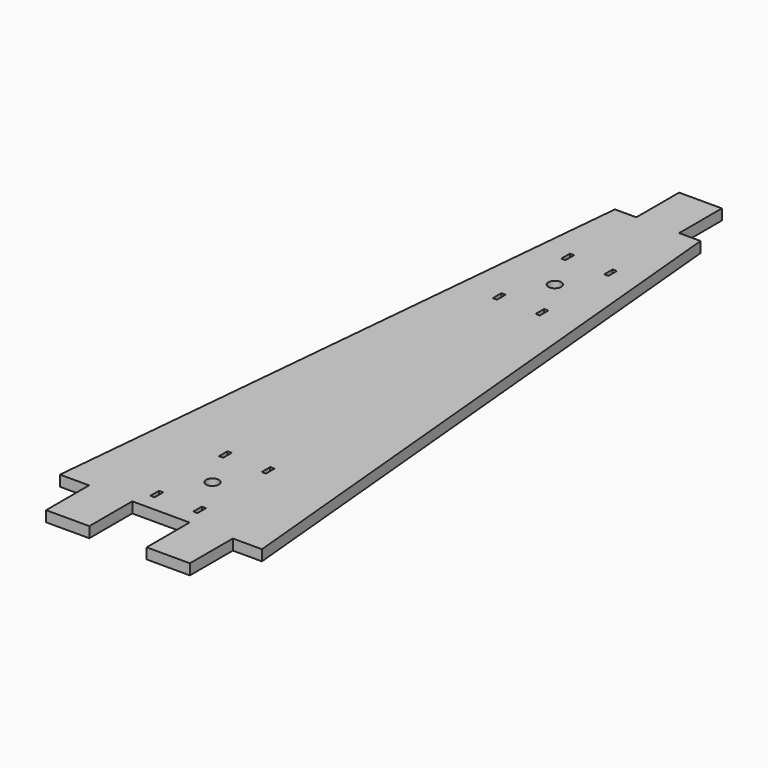
from build123d import *

# Parameters (mm, degrees)
SKETCH010_R  = 3
SKETCH010_W  = 2
SKETCH010_H  = 5
PAD010_DEPTH = 5


with BuildPart() as part:
    # Sketch010 → Pad010 (new body)
    with BuildSketch(Plane.XY):
        Polygon((-10, 160.1), (-20, 160.1), (-47.2, -130.1), (-33.6, -130.1), (-33.6, -155.2), (-13.4, -155.2), (-13.4, -130.1), (13.4, -130.1), (13.4, -155.2), (33.6, -155.2), (33.6, -130.1), (47.2, -130.1), (20, 160.1), (10, 160.1), (10, 185.1), (-10, 185.1), align=None)
        with Locations((0, -100)):
            Circle(SKETCH010_R, mode=Mode.SUBTRACT)
        with Locations((0, 100)):
            Circle(SKETCH010_R, mode=Mode.SUBTRACT)
        with Locations((-10, -80)):
            Rectangle(SKETCH010_W, SKETCH010_H, mode=Mode.SUBTRACT)
        with Locations((10, -80)):
            Rectangle(SKETCH010_W, SKETCH010_H, mode=Mode.SUBTRACT)
        with Locations((-10, -120)):
            Rectangle(SKETCH010_W, SKETCH010_H, mode=Mode.SUBTRACT)
        with Locations((10, -120)):
            Rectangle(SKETCH010_W, SKETCH010_H, mode=Mode.SUBTRACT)
        with Locations((-10, 120)):
            Rectangle(SKETCH010_W, SKETCH010_H, mode=Mode.SUBTRACT)
        with Locations((10, 120)):
            Rectangle(SKETCH010_W, SKETCH010_H, mode=Mode.SUBTRACT)
        with Locations((-10, 80)):
            Rectangle(SKETCH010_W, SKETCH010_H, mode=Mode.SUBTRACT)
        with Locations((10, 80)):
            Rectangle(SKETCH010_W, SKETCH010_H, mode=Mode.SUBTRACT)
    extrude(amount=PAD010_DEPTH)


solid = part.part
